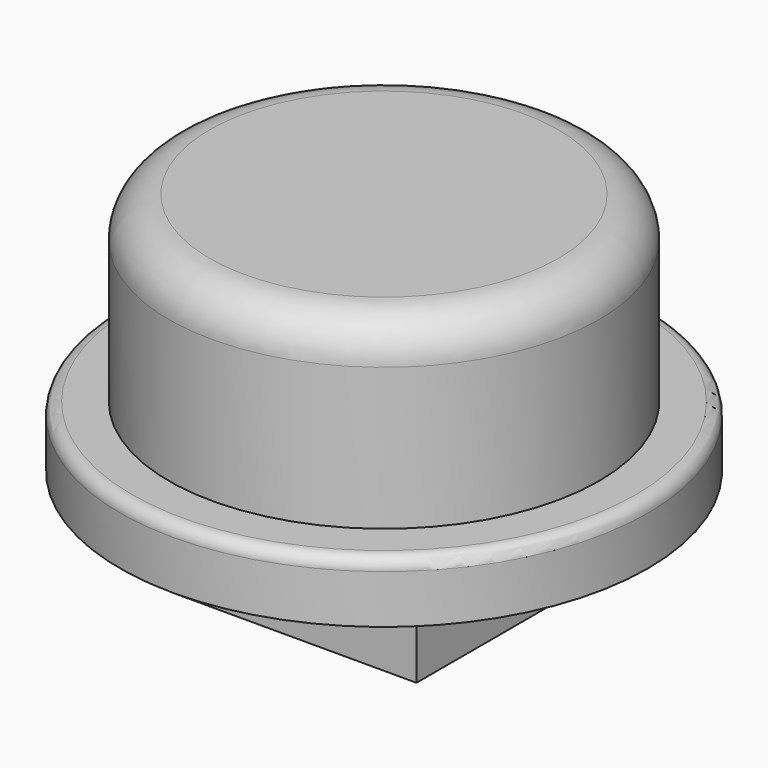
from build123d import *

# Parameters (mm, degrees)
SKETCH_R     = 6.5
PAD_DEPTH    = 1.5
SKETCH001_R  = 5.292227
PAD001_DEPTH = 4.5
FILLET_R     = 1
FILLET001_R  = 0.3
SKETCH002_W  = 6
SKETCH002_H  = 5.5
PAD002_DEPTH = 2.5


with BuildPart() as part:
    # Sketch → Pad (new body)
    with BuildSketch(Plane.XY):
        Circle(SKETCH_R)
    extrude(amount=PAD_DEPTH)

    # Sketch001 → Pad001 (new body)
    with BuildSketch(Plane.XY.offset(1.5)):
        Circle(SKETCH001_R)
    extrude(amount=PAD001_DEPTH)

    # Fillet
    fillet_edges = [part.edges().sort_by_distance(p)[0] for p in [
        (-5.292227, 0, 6),
    ]]
    fillet(fillet_edges, radius=FILLET_R)

    # Fillet001
    fillet001_edges = [part.edges().sort_by_distance(p)[0] for p in [
        (-6.5, 0, 1.5),
    ]]
    fillet(fillet001_edges, radius=FILLET001_R)

    # Sketch002 → Pad002 (new body)
    with BuildSketch(Plane(origin=(0, 0, 0), x_dir=(1, 0, 0), z_dir=(0, 0, -1))):
        Rectangle(SKETCH002_W, SKETCH002_H)
    extrude(amount=PAD002_DEPTH)


solid = part.part
